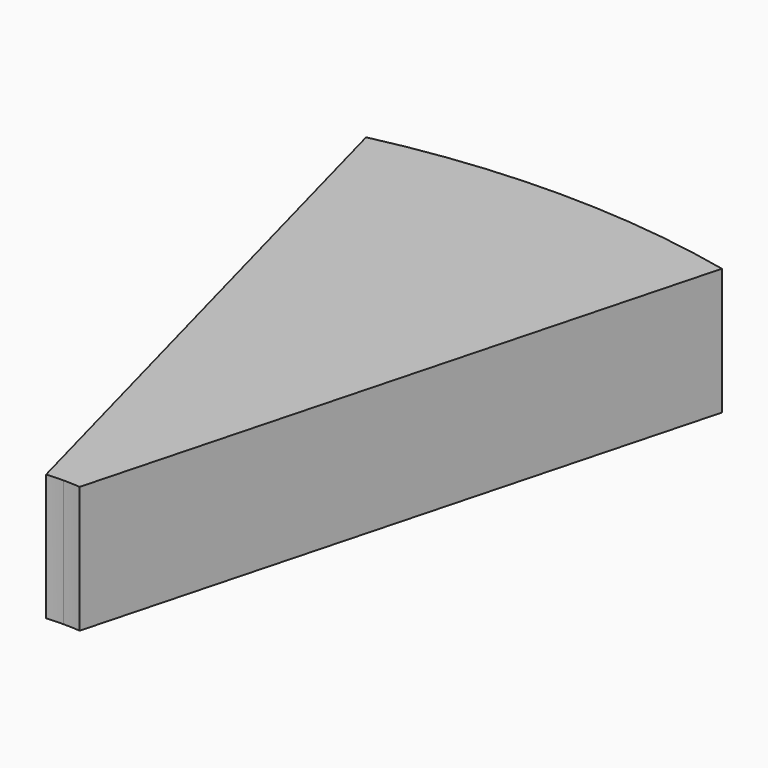
from build123d import *

# Parameters (mm, degrees)
F1_DEPTH = 25.4


with BuildPart() as f1:
    # F0 (on Top) → F1 (new body)
    with BuildSketch(Plane.XY):
        with BuildLine():
            ThreePointArc((-3.363179, 37.951272), (-1.683233, 38.0628), (0, 38.1))
            Line((0, 38.1), (0, 162.56))
            ThreePointArc((0, 162.56), (-17.954487, 161.565436), (-35.689277, 158.593913))
            Line((-35.689277, 158.593913), (-3.363179, 37.951272))
        make_face()
        with BuildLine():
            Line((0, 162.56), (0, 38.1))
            ThreePointArc((0, 38.1), (1.683233, 38.0628), (3.363179, 37.951272))
            Line((3.363179, 37.951272), (35.689277, 158.593913))
            ThreePointArc((35.689277, 158.593913), (17.954487, 161.565436), (0, 162.56))
        make_face()
    extrude(amount=F1_DEPTH)


solid = f1.part
